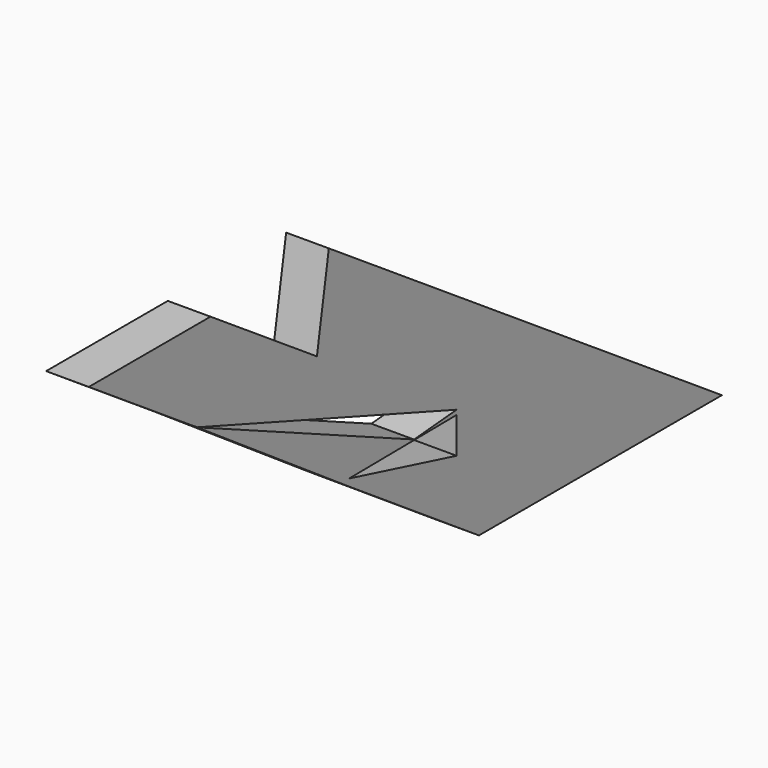
from build123d import *

# Parameters (mm, degrees)
F1_DEPTH = 27.178


with BuildPart() as f1:
    # F0 (on Right) → F1 (new body)
    with BuildSketch(Plane.YZ):
        Polygon((-201.0527832023, 103.0996836883), (-111.1142710685, 75.0100706926), (-195.7207322121, 131.6622793674), align=None)
        Polygon((-111.1142710685, 75.0100706926), (-206.2715808406, 74.0581721357), (-206.0097499806, 73.8894074276), (0, 0), (210.9516762065, -77.6375151615), (-101.6242206097, 131.6622793674), align=None)
        Polygon((-206.4524721431, 74.174766749), (-206.2715808406, 74.0581721357), (-111.1142710685, 75.0100706926), (-201.0527832023, 103.0996836883), align=None)
        Polygon((-205.8051467933, 73.7575291716), (-206.4746171236, 74.0561410785), (-85.4999272821, -8.3092013374), (17.7439041436, -77.6375151615), (0, -25.8079376072), (-85.4999272821, -3.785947777), align=None)
        Polygon((-33.874746412, -2.9306560755), (-205.8051467933, 73.7575291716), (-85.4999272821, -3.785947777), (0, -2.9306560755), (0, -25.8079376072), (17.7439041436, -77.6375151615), (210.9516762065, -77.6375151615), (0, 0), align=None)
        Polygon((-292.5057113171, 131.6622793674), (-211.7819928518, 77.6099424455), (-206.4524721431, 74.174766749), (-201.0527832023, 103.0996836883), align=None)
        Polygon((-195.7207322121, 131.6622793674), (-292.5057113171, 131.6622793674), (-201.0527832023, 103.0996836883), align=None)
    extrude(amount=F1_DEPTH)


solid = f1.part
